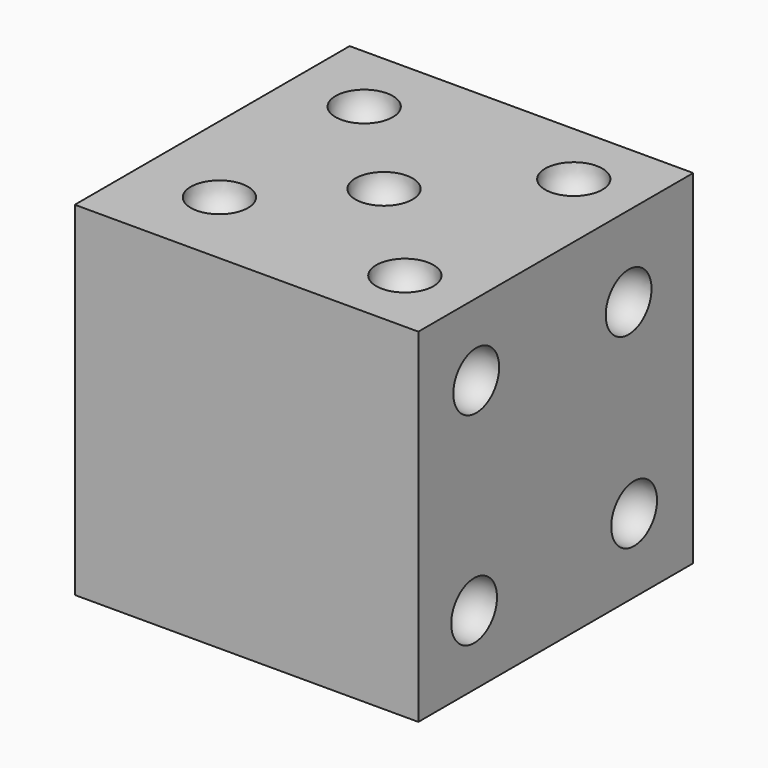
from build123d import *

# Parameters (mm, degrees)
F0_W     = 76.2
F0_H     = 76.2
F1_DEPTH = 76.2


with BuildPart() as f1:
    # F0 (on Top) → F1 (new body)
    with BuildSketch(Plane.XY):
        with Locations((-38.1, 38.1)):
            Rectangle(F0_W, F0_H)
    extrude(amount=F1_DEPTH)

    # F3 (on offset) → F4 (revolve, cut)
    with BuildSketch(Plane.XZ.offset(-76.2)):
        with BuildLine():
            ThreePointArc((-38.1, 31.75), (-31.75, 38.1), (-38.1, 44.45))
            Line((-38.1, 44.45), (-38.1, 31.75))
        make_face()
    revolve(axis=Axis((-38.1, 76.2, 38.1), (0, 0, -1)), mode=Mode.SUBTRACT)

    # F5 (on face) → F6 (revolve, cut)
    with BuildSketch(Plane(origin=(-76.2, 0, 0), x_dir=(0, -1, 0), z_dir=(-1, 0, 0))):
        with BuildLine():
            Line((-33.609872, 33.609872), (-42.590128, 42.590128))
            ThreePointArc((-42.590128, 42.590128), (-42.590128, 33.609872), (-33.609872, 33.609872))
        make_face()
    revolve(axis=Axis((-76.2, 38.1, 38.1), (0, -0.707107, -0.707107)), mode=Mode.SUBTRACT)

    # F7 (on face) → F8 (revolve, cut)
    with BuildSketch(Plane(origin=(0, 76.2, 0), x_dir=(-1, 0, 0), z_dir=(0, 1, 0))):
        with BuildLine():
            ThreePointArc((17.894424, 58.305576), (17.894424, 67.285832), (8.914168, 67.285832))
            Line((8.914168, 67.285832), (17.894424, 58.305576))
        make_face()
        with BuildLine():
            ThreePointArc((67.285832, 8.914168), (67.285832, 17.894424), (58.305576, 17.894424))
            Line((58.305576, 17.894424), (67.285832, 8.914168))
        make_face()
    revolve(axis=Axis((-38.1, 76.2, 38.1), (-0.707107, 0, -0.707107)), mode=Mode.SUBTRACT)

    # F9 (on face) → F10 (revolve, cut)
    with BuildSketch(Plane.YZ):
        with BuildLine():
            ThreePointArc((20.537509, 55.662491), (20.537509, 64.642747), (11.557253, 64.642747))
            Line((11.557253, 64.642747), (20.537509, 55.662491))
        make_face()
        with BuildLine():
            ThreePointArc((64.310294, 11.889706), (64.310294, 20.869962), (55.330038, 20.869962))
            Line((55.330038, 20.869962), (64.310294, 11.889706))
        make_face()
    revolve(axis=Axis((0, 38.1, 38.1), (0, 0.707107, -0.707107)), mode=Mode.SUBTRACT)

    # F11 (on face) → F12 (revolve, cut)
    with BuildSketch(Plane.YZ):
        with BuildLine():
            ThreePointArc((19.950077, 19.950077), (10.969821, 19.950077), (10.969821, 10.969821))
            Line((10.969821, 10.969821), (19.950077, 19.950077))
        make_face()
        with BuildLine():
            ThreePointArc((62.783497, 62.783497), (53.803241, 62.783497), (53.803241, 53.803241))
            Line((53.803241, 53.803241), (62.783497, 62.783497))
        make_face()
    revolve(axis=Axis((0, 38.1, 38.1), (0, 0.707107, 0.707107)), mode=Mode.SUBTRACT)

    # F13 (on face) → F14 (revolve, cut)
    with BuildSketch(Plane(origin=(0, 0, 0), x_dir=(1, 0, 0), z_dir=(0, 0, -1))):
        with BuildLine():
            ThreePointArc((-52.16147, -38.1), (-58.51147, -31.75), (-64.86147, -38.1))
            Line((-64.86147, -38.1), (-52.16147, -38.1))
        make_face()
        with BuildLine():
            ThreePointArc((-10.272577, -38.1), (-16.622577, -31.75), (-22.972577, -38.1))
            Line((-22.972577, -38.1), (-10.272577, -38.1))
        make_face()
    revolve(axis=Axis((-38.1, 38.1, 0), (1, 0, 0)), mode=Mode.SUBTRACT)

    # F15 (on face) → F16 (revolve, cut)
    with BuildSketch(Plane.XY.offset(76.2)):
        with BuildLine():
            ThreePointArc((-55.572781, 55.572781), (-55.572781, 64.553038), (-64.553038, 64.553038))
            Line((-64.553038, 64.553038), (-55.572781, 55.572781))
        make_face()
        with BuildLine():
            ThreePointArc((-33.609872, 33.609872), (-33.609872, 42.590128), (-42.590128, 42.590128))
            Line((-42.590128, 42.590128), (-33.609872, 33.609872))
        make_face()
        with BuildLine():
            Line((-19.450447, 19.450447), (-10.470191, 10.470191))
            ThreePointArc((-10.470191, 10.470191), (-10.470191, 19.450447), (-19.450447, 19.450447))
        make_face()
    revolve(axis=Axis((-38.1, 38.1, 76.2), (0.707107, -0.707107, 0)), mode=Mode.SUBTRACT)

    # F17 (on face) → F18 (revolve, cut)
    with BuildSketch(Plane.XY.offset(76.2)):
        with BuildLine():
            ThreePointArc((-53.889414, 22.310586), (-62.869671, 22.310586), (-62.869671, 13.330329))
            Line((-62.869671, 13.330329), (-53.889414, 22.310586))
        make_face()
        with BuildLine():
            ThreePointArc((-10.227447, 65.972553), (-19.207703, 65.972553), (-19.207703, 56.992297))
            Line((-19.207703, 56.992297), (-10.227447, 65.972553))
        make_face()
    revolve(axis=Axis((-38.1, 38.1, 76.2), (0.707107, 0.707107, 0)), mode=Mode.SUBTRACT)


solid = f1.part
